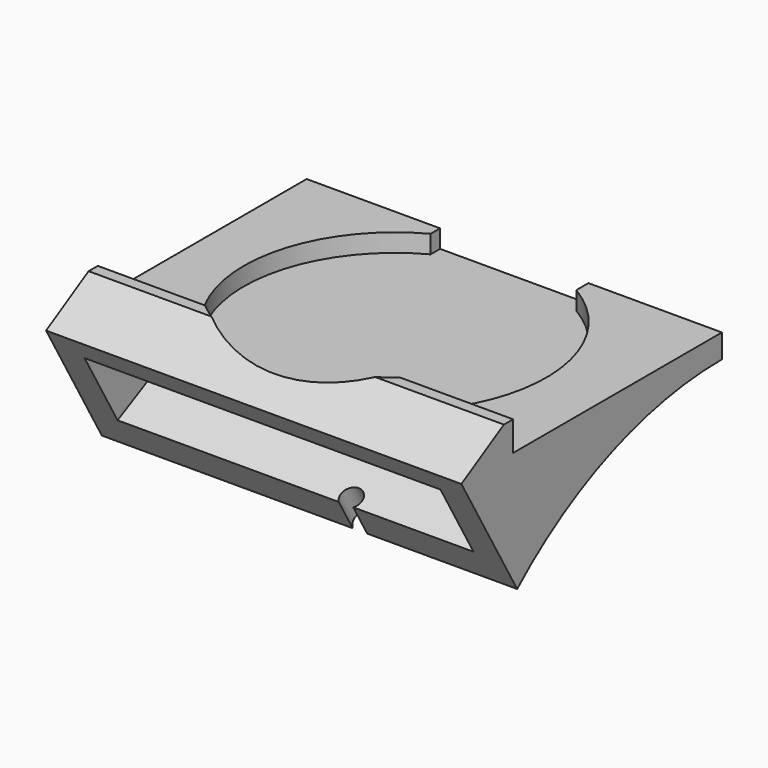
from build123d import *

# Parameters (mm, degrees)
SKETCH_W        = 140
SKETCH_H        = 110
PAD_DEPTH       = 100
SKETCH001_R     = 51
POCKET_DEPTH    = 16.1
SKETCH002_W     = 50
SKETCH002_H     = 7.148574
POCKET001_DEPTH = 16.1
SKETCH003_W     = 140
SKETCH003_H     = 90
POCKET002_DEPTH = 10
POCKET004_DEPTH = 140.001
POCKET005_DEPTH = 140
SKETCH007_R     = 129.123984
POCKET006_DEPTH = 140.001
POCKET007_DEPTH = 140.001
POCKET008_START = -1.5
POCKET008_DEPTH = 5.6
POCKET010_START = -10
POCKET010_DEPTH = 120
POCKET011_DEPTH = 52.16617
POCKET012_START = -20
SKETCH012_R     = 3.5
POCKET012_DEPTH = 30


with BuildPart() as part:
    # Sketch → Pad (new body)
    with BuildSketch(Plane.XY):
        with Locations((70, 55)):
            Rectangle(SKETCH_W, SKETCH_H)
    extrude(amount=PAD_DEPTH)

    # Sketch001 (on Face6 of Pad) → Pocket (cut)
    with BuildSketch(Plane.XY.offset(100)):
        with Locations((69, 61)):
            Circle(SKETCH001_R)
    extrude(amount=-POCKET_DEPTH, mode=Mode.SUBTRACT)

    # Sketch002 (on Face5 of Pocket) → Pocket001 (cut)
    with BuildSketch(Plane.XY.offset(100)):
        with Locations((70, 106.425713)):
            Rectangle(SKETCH002_W, SKETCH002_H)
    extrude(amount=-POCKET001_DEPTH, mode=Mode.SUBTRACT)

    # Sketch003 (on Face5 of Pocket001) → Pocket002 (cut)
    with BuildSketch(Plane.XY.offset(100)):
        with Locations((70, 67)):
            Rectangle(SKETCH003_W, SKETCH003_H)
    extrude(amount=-POCKET002_DEPTH, mode=Mode.SUBTRACT)

    # Sketch005 (on Face2 of Pocket002) → Pocket004 (cut, through all)
    with BuildSketch(Plane(origin=(0, 0, 0), x_dir=(0, -1, 0), z_dir=(-1, 0, 0))):
        Polygon((-18.980759, 100.500006), (7, 85.5), (7, 100.500006), align=None)
    extrude(amount=-POCKET004_DEPTH, mode=Mode.SUBTRACT)

    # Sketch006 (on Face5 of Pocket004) → Pocket005 (cut)
    with BuildSketch(Plane(origin=(0, 0, 0), x_dir=(0, -1, 0), z_dir=(-1, 0, 0))):
        Polygon((-110, 82), (0, 18.491437), (0, 0), (-110, 0), align=None)
    extrude(amount=-POCKET005_DEPTH, mode=Mode.SUBTRACT)

    # Sketch007 (on Face5 of Pocket005) → Pocket006 (cut, through all)
    with BuildSketch(Plane(origin=(0, 0, 0), x_dir=(0, -1, 0), z_dir=(-1, 0, 0))):
        with Locations((-110, -47.123984)):
            Circle(SKETCH007_R)
    extrude(amount=-POCKET006_DEPTH, mode=Mode.SUBTRACT)

    # Sketch008 (on Face5 of Pocket006) → Pocket007 (cut, through all)
    with BuildSketch(Plane(origin=(0, 0, 0), x_dir=(0, -1, 0), z_dir=(-1, 0, 0))):
        Polygon((0, 0), (0, 90), (-29.999995, 38.038473), align=None)
    extrude(amount=-POCKET007_DEPTH, mode=Mode.SUBTRACT)

    # Sketch009 (on Face10 of Pocket007) → Pocket008 (cut)
    with BuildSketch(Plane.XY.offset(90).offset(POCKET008_START)):
        with BuildLine():
            Line((106.36396, 14.264465), (114.142136, 22.042638))
            ThreePointArc((114.142136, 22.042638), (114.727923, 23.456852), (114.142137, 24.871066))
            Line((114.142137, 24.871066), (110.606603, 28.4066))
            ThreePointArc((110.606603, 28.4066), (109.19239, 28.992387), (107.778176, 28.4066))
            Line((107.778176, 28.4066), (100, 20.628427))
            ThreePointArc((100, 20.628427), (99.414214, 19.214214), (100, 17.8))
            Line((100, 17.8), (103.535533, 14.264466))
            ThreePointArc((103.535533, 14.264466), (104.949747, 13.678679), (106.36396, 14.264465))
        make_face()
    extrude(amount=-POCKET008_DEPTH, mode=Mode.SUBTRACT)

    # Sketch010 → Pocket010 (cut)
    with BuildSketch(Plane.YZ.offset(140).offset(POCKET010_START)):
        Polygon((0, 83.24846), (65, 83.24846), (0, 50), align=None)
    extrude(amount=-POCKET010_DEPTH, mode=Mode.SUBTRACT)

    # Sketch011 (on DatumPlane) → Pocket011 (cut, through all)
    with BuildSketch(Plane(origin=(42, -42, 83.24846), x_dir=(0.5, -0.5, 0.707107), z_dir=(0.5, -0.5, -0.707107))):
        with BuildLine():
            Line((8.1, -96.29), (8.1, -85.29))
            ThreePointArc((8.1, -85.29), (7.514214, -83.875786), (6.1, -83.29))
            Line((6.1, -83.29), (1.1, -83.29))
            ThreePointArc((1.1, -83.29), (-0.314214, -83.875786), (-0.9, -85.29))
            Line((-0.9, -85.29), (-0.9, -96.29))
            ThreePointArc((-0.9, -96.29), (-0.314214, -97.704214), (1.1, -98.29))
            Line((1.1, -98.29), (6.1, -98.29))
            ThreePointArc((6.1, -98.29), (7.514214, -97.704214), (8.1, -96.29))
        make_face()
    extrude(amount=POCKET011_DEPTH, mode=Mode.SUBTRACT)

    # Sketch012 (on Face13 of Pocket011) → Pocket012 (cut)
    with BuildSketch(Plane(origin=(0, -38.772597, 67.156073), x_dir=(1, 0, 0), z_dir=(0, -0.5, 0.866025)).offset(POCKET012_START)):
        with Locations((87, 47.5)):
            Circle(SKETCH012_R)
    extrude(amount=-POCKET012_DEPTH, mode=Mode.SUBTRACT)


solid = part.part
